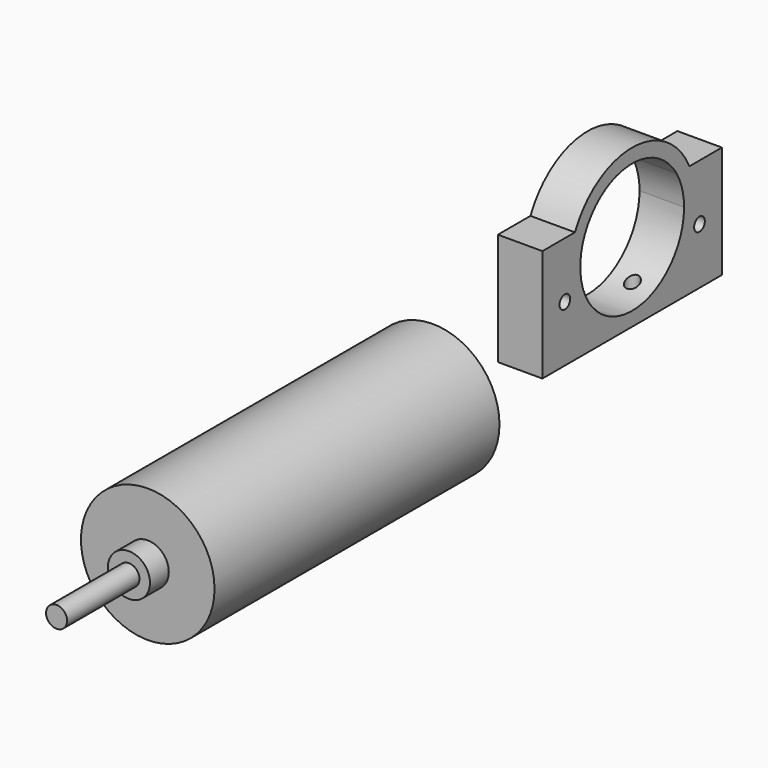
from build123d import *

# Parameters (mm, degrees)
F0_R     = 19.05
F1_DEPTH = 101.6
F2_R     = 6
F3_DEPTH = 6.7
F4_R     = 3
F5_DEPTH = 25.8
F6_R     = 1.905
F7_DEPTH = 12.7
F8_R     = 1.905
F9_DEPTH = 6.8759889051


with BuildPart() as f1:
    # F0 (on Front) → F1 (new body)
    with BuildSketch(Plane.XZ):
        Circle(F0_R)
    extrude(amount=F1_DEPTH)

    # F2 (on face) → F3 (join)
    with BuildSketch(Plane.XZ.offset(101.6)):
        Circle(F2_R)
    extrude(amount=F3_DEPTH)

    # F4 (on face) → F5 (join)
    with BuildSketch(Plane.XZ.offset(108.3)):
        Circle(F4_R)
    extrude(amount=F5_DEPTH)


with BuildPart() as f7:
    # F6 (on Right) → F7 (new body)
    with BuildSketch(Plane.YZ):
        with BuildLine():
            ThreePointArc((75.6377390228, 32), (55.2416609685, 45), (34.8455829141, 32))
            Line((34.8455829141, 32), (39.3671531021, 32))
            ThreePointArc((39.3671531021, 32), (55.2416609685, 41), (71.1161688348, 32))
            Line((71.1161688348, 32), (75.6377390228, 32))
        make_face()
        with BuildLine():
            ThreePointArc((34.8455829141, 32), (36.2679950074, 10.4066133776), (55.2416609685, 0))
            ThreePointArc((55.2416609685, 0), (71.1515635452, 6.5900974233), (77.7416609685, 22.5))
            ThreePointArc((77.7416609685, 22.5), (77.2093845217, 27.3650921768), (75.6377390228, 32))
            Line((75.6377390228, 32), (71.1161688348, 32))
            ThreePointArc((71.1161688348, 32), (73.0732115955, 27.4280627265), (73.7416609685, 22.5))
            ThreePointArc((73.7416609685, 22.5), (50.313598242, 4.668449373), (39.3671531021, 32))
            Line((39.3671531021, 32), (34.8455829141, 32))
        make_face()
        with BuildLine():
            Line((23.2416609685, 32), (23.2416609685, 0))
            Line((23.2416609685, 0), (55.2416609685, 0))
            ThreePointArc((55.2416609685, 0), (36.2679950074, 10.4066133776), (34.8455829141, 32))
            Line((34.8455829141, 32), (23.2416609685, 32))
        make_face()
        with Locations((31.2416609685, 16)):
            Circle(F6_R, mode=Mode.SUBTRACT)
        with BuildLine():
            ThreePointArc((77.7416609685, 22.5), (71.1515635452, 6.5900974233), (55.2416609685, 0))
            Line((55.2416609685, 0), (87.2416609685, 0))
            Line((87.2416609685, 0), (87.2416609685, 32))
            Line((87.2416609685, 32), (75.6377390228, 32))
            ThreePointArc((75.6377390228, 32), (77.2093845217, 27.3650921768), (77.7416609685, 22.5))
        make_face()
        with Locations((79.2416609685, 16)):
            Circle(F6_R, mode=Mode.SUBTRACT)
    extrude(amount=F7_DEPTH)

    # F8 (on face) → F9 (cut, through all)
    with BuildSketch(Plane(origin=(0, 0, 0), x_dir=(1, 0, 0), z_dir=(0, 0, -1))):
        with Locations((6.35, -47.2416609685)):
            Circle(F8_R)
        with Locations((6.35, -63.2416609685)):
            Circle(F8_R)
    extrude(amount=-F9_DEPTH, mode=Mode.SUBTRACT)


solid = Compound([f1.part, f7.part])
